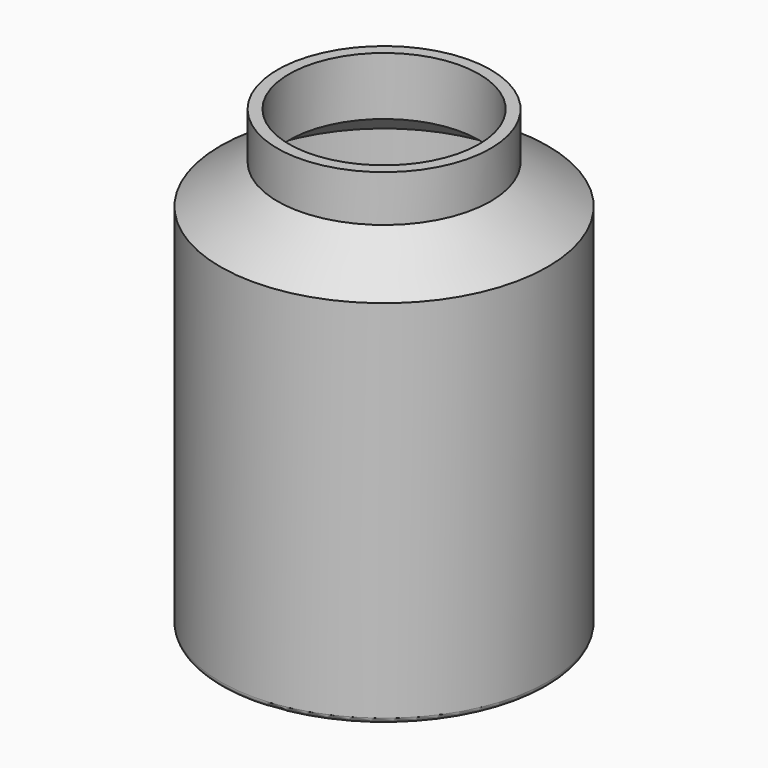
from build123d import *


with BuildPart() as f1:
    # F0 (on Front) → F1 (revolve)
    with BuildSketch(Plane.XZ):
        with BuildLine():
            Line((0, 2.60087), (0, 0))
            Line((0, 0), (22.798048, 0))
            Line((22.798048, 0), (32.394454, -7.955173))
            Line((32.394454, -7.955173), (35.880763, -7.955173))
            ThreePointArc((35.880763, -7.955173), (36.778788, -7.583199), (37.150763, -6.685173))
            Line((37.150763, -6.685173), (37.150763, 76.211363))
            Line((37.150763, 76.211363), (24.195622, 85.088037))
            Line((24.195622, 85.088037), (24.195622, 95.644079))
            Line((24.195622, 95.644079), (21.556608, 95.644079))
            Line((21.556608, 95.644079), (21.556608, 82.449026))
            Line((21.556608, 82.449026), (34.031931, 74.052177))
            Line((34.031931, 74.052177), (34.031931, -2.846612))
            ThreePointArc((34.031931, -2.846612), (33.659956, -3.744638), (32.761931, -4.116612))
            Line((32.761931, -4.116612), (32.394454, -4.116612))
            Line((32.394454, -4.116612), (23.037961, 2.60087))
            Line((23.037961, 2.60087), (0, 2.60087))
        make_face()
    revolve(axis=Axis((0, 0, 41.504439), (0, 0, 1)))


solid = f1.part
